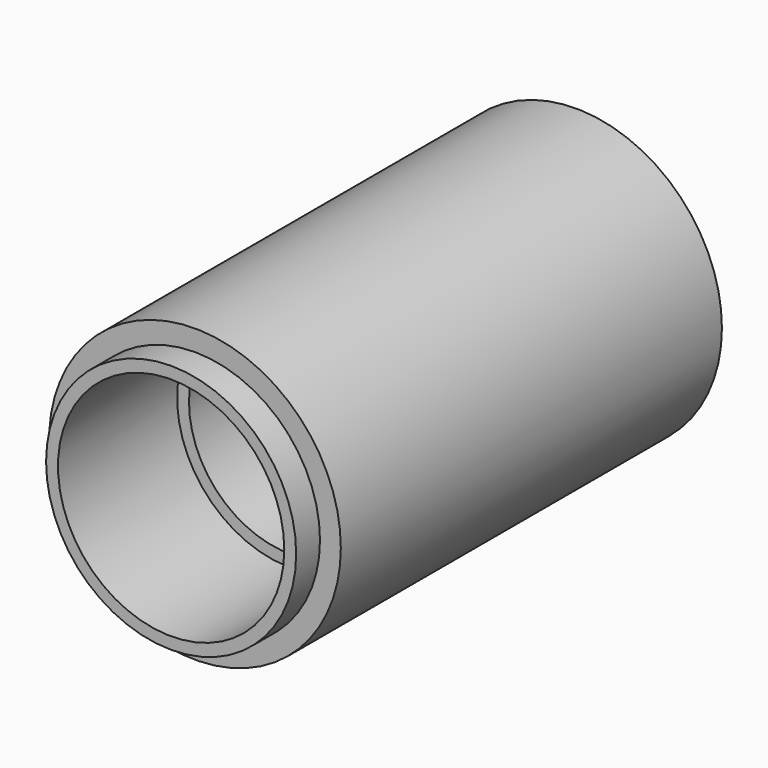
from build123d import *

# Parameters (mm, degrees)
F0_R     = 12.25
F1_DEPTH = 42.5
F2_R     = 12.25
F2_R_2   = 10.5
F3_DEPTH = 2.5
F4_R     = 9.5
F5_DEPTH = 12.5
F6_R     = 10
F7_DEPTH = 18
F8_R     = 8.5
F9_DEPTH = 25


with BuildPart() as f1:
    # F0 (on Front) → F1 (new body)
    with BuildSketch(Plane.XZ):
        Circle(F0_R)
    extrude(amount=F1_DEPTH)

    # F2 (on face) → F3 (cut)
    with BuildSketch(Plane.XZ.offset(42.5)):
        Circle(F2_R)
        Circle(F2_R_2, mode=Mode.SUBTRACT)
    extrude(amount=-F3_DEPTH, mode=Mode.SUBTRACT)

    # F4 (on face) → F5 (cut)
    with BuildSketch(Plane.XZ.offset(42.5)):
        Circle(F4_R)
    extrude(amount=-F5_DEPTH, mode=Mode.SUBTRACT)

    # F6 (on face) → F7 (cut)
    with BuildSketch(Plane(origin=(0, 0, 0), x_dir=(-1, 0, 0), z_dir=(0, 1, 0))):
        Circle(F6_R)
    extrude(amount=-F7_DEPTH, mode=Mode.SUBTRACT)

    # F8 (on face) → F9 (cut)
    with BuildSketch(Plane(origin=(0, -18, 0), x_dir=(-1, 0, 0), z_dir=(0, 1, 0))):
        Circle(F8_R)
    extrude(amount=-F9_DEPTH, mode=Mode.SUBTRACT)


solid = f1.part
